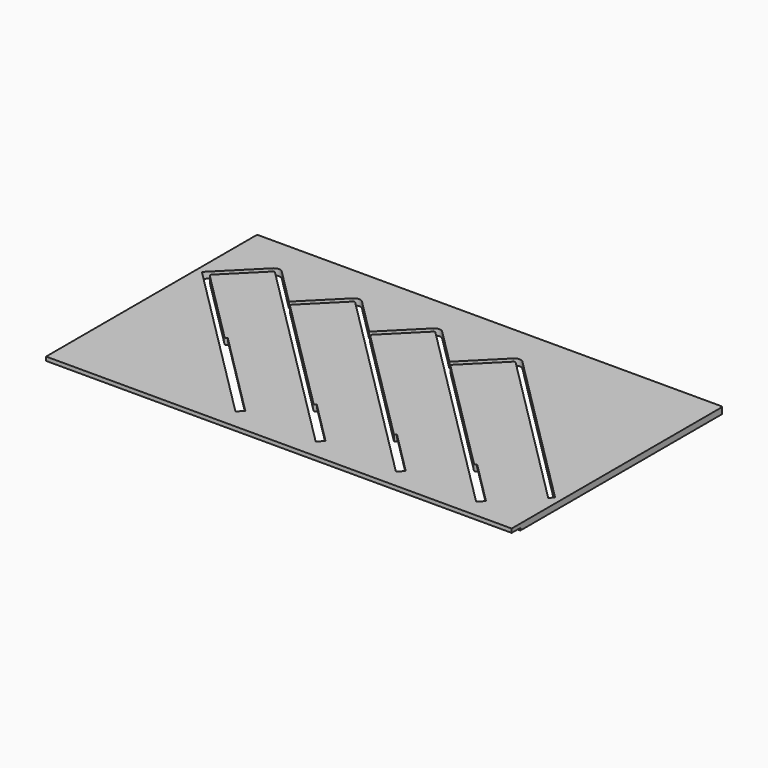
from build123d import *

# Parameters (mm, degrees)
F1_DEPTH = 4
F2_W     = 300
F2_H     = 7
F3_DEPTH = 1.5
F4_DEPTH = 2.5


with BuildPart() as f1:
    # F0 (on Top) → F1 (new body)
    with BuildSketch(Plane.XY):
        with BuildLine():
            Line((-4.287656, -89.914214), (295.712344, -89.914214))
            Line((295.712344, -89.914214), (295.712344, 79.085786))
            ThreePointArc((295.712344, 79.085786), (295.41945, 79.792893), (294.712344, 80.085786))
            Line((294.712344, 80.085786), (-3.287656, 80.085786))
            ThreePointArc((-3.287656, 80.085786), (-3.994763, 79.792893), (-4.287656, 79.085786))
            Line((-4.287656, 79.085786), (-4.287656, -89.914214))
        make_face()
        with BuildLine():
            ThreePointArc((180.696579, 55.444697), (183.525006, 56.61627), (186.353433, 55.444697))
            Line((186.353433, 55.444697), (291.712344, -49.914214))
            Line((291.712344, -49.914214), (289.23747, -52.389087))
            Line((289.23747, -52.389087), (184.232113, 52.61627))
            ThreePointArc((184.232113, 52.61627), (183.525006, 52.909163), (182.817899, 52.61627))
            Line((182.817899, 52.61627), (160.897589, 30.695959))
            ThreePointArc((160.897589, 30.695959), (160.604696, 29.988853), (160.897589, 29.281746))
            Line((160.897589, 29.281746), (236.911568, -46.732233))
            ThreePointArc((236.911568, -46.732233), (237.618675, -47.025126), (238.325782, -46.732233))
            Line((238.325782, -46.732233), (238.679335, -46.37868))
            Line((238.679335, -46.37868), (266.963606, -74.662951))
            Line((266.963606, -74.662951), (265.902946, -75.723611))
            Line((265.902946, -75.723611), (263.428072, -78.198485))
            Line((263.428072, -78.198485), (155.240735, 29.988853))
            Line((155.240735, 29.988853), (132.259764, 52.969823))
            ThreePointArc((132.259764, 52.969823), (131.552658, 53.262716), (130.845551, 52.969823))
            Line((130.845551, 52.969823), (108.925241, 31.049513))
            ThreePointArc((108.925241, 31.049513), (108.632347, 30.342406), (108.925241, 29.635299))
            Line((108.925241, 29.635299), (184.93922, -46.37868))
            ThreePointArc((184.93922, -46.37868), (185.646326, -46.671573), (186.353433, -46.37868))
            Line((186.353433, -46.37868), (186.706987, -46.025126))
            Line((186.706987, -46.025126), (214.991258, -74.309398))
            Line((214.991258, -74.309398), (213.930598, -75.370058))
            Line((213.930598, -75.370058), (211.455724, -77.844931))
            Line((211.455724, -77.844931), (103.268386, 30.342406))
            Line((103.268386, 30.342406), (80.287416, 53.323376))
            ThreePointArc((80.287416, 53.323376), (79.580309, 53.61627), (78.873202, 53.323376))
            Line((78.873202, 53.323376), (56.952892, 31.403066))
            ThreePointArc((56.952892, 31.403066), (56.659999, 30.695959), (56.952892, 29.988853))
            Line((56.952892, 29.988853), (132.966871, -46.025126))
            ThreePointArc((132.966871, -46.025126), (133.673978, -46.318019), (134.381085, -46.025126))
            Line((134.381085, -46.025126), (134.734638, -45.671573))
            Line((134.734638, -45.671573), (163.018909, -73.955844))
            Line((163.018909, -73.955844), (161.958249, -75.016504))
            Line((161.958249, -75.016504), (159.483376, -77.491378))
            Line((159.483376, -77.491378), (51.296038, 30.695959))
            Line((51.296038, 30.695959), (28.315068, 53.67693))
            ThreePointArc((28.315068, 53.67693), (27.607961, 53.969823), (26.900854, 53.67693))
            Line((26.900854, 53.67693), (4.980544, 31.75662))
            ThreePointArc((4.980544, 31.75662), (4.687651, 31.049513), (4.980544, 30.342406))
            Line((4.980544, 30.342406), (52.710252, -17.387302))
            ThreePointArc((52.710252, -17.387302), (53.417358, -17.680195), (54.124465, -17.387302))
            Line((54.124465, -17.387302), (54.478019, -17.033748))
            Line((54.478019, -17.033748), (111.046561, -73.602291))
            Line((111.046561, -73.602291), (109.985901, -74.662951))
            Line((109.985901, -74.662951), (107.511027, -77.137825))
            Line((107.511027, -77.137825), (-0.67631, 31.049513))
            Line((-0.67631, 31.049513), (24.779534, 56.505357))
            ThreePointArc((24.779534, 56.505357), (27.607961, 57.67693), (30.436388, 56.505357))
            Line((30.436388, 56.505357), (53.770912, 33.170833))
            Line((53.770912, 33.170833), (76.751882, 56.151804))
            ThreePointArc((76.751882, 56.151804), (79.580309, 57.323376), (82.408736, 56.151804))
            Line((82.408736, 56.151804), (105.74326, 32.81728))
            Line((105.74326, 32.81728), (128.724231, 55.79825))
            ThreePointArc((128.724231, 55.79825), (131.552658, 56.969823), (134.381085, 55.79825))
            Line((134.381085, 55.79825), (157.715609, 32.463726))
            Line((157.715609, 32.463726), (180.696579, 55.444697))
        make_face(mode=Mode.SUBTRACT)
    extrude(amount=F1_DEPTH)

    # F2 (on face) → F3 (cut)
    with BuildSketch(Plane(origin=(0, 0, 0), x_dir=(1, 0, 0), z_dir=(0, 0, -1))):
        with Locations((145.712344, 86.414214)):
            Rectangle(F2_W, F2_H)
    extrude(amount=-F3_DEPTH, mode=Mode.SUBTRACT)

    # F2 (on face) → F4 (cut)
    with BuildSketch(Plane(origin=(0, 0, 0), x_dir=(1, 0, 0), z_dir=(0, 0, -1))):
        Polygon((118.117629, 66.531223), (111.046561, 73.602291), (54.478019, 17.033748), (61.549086, 9.96268), align=None)
        Polygon((170.089977, 66.884776), (163.018909, 73.955844), (134.734638, 45.671573), (141.805706, 38.600505), align=None)
        Polygon((222.062326, 67.23833), (214.991258, 74.309398), (186.706987, 46.025126), (193.778054, 38.954058), align=None)
        Polygon((274.034674, 67.591883), (266.963606, 74.662951), (238.679335, 46.37868), (245.750403, 39.307612), align=None)
    extrude(amount=-F4_DEPTH, mode=Mode.SUBTRACT)


solid = f1.part
